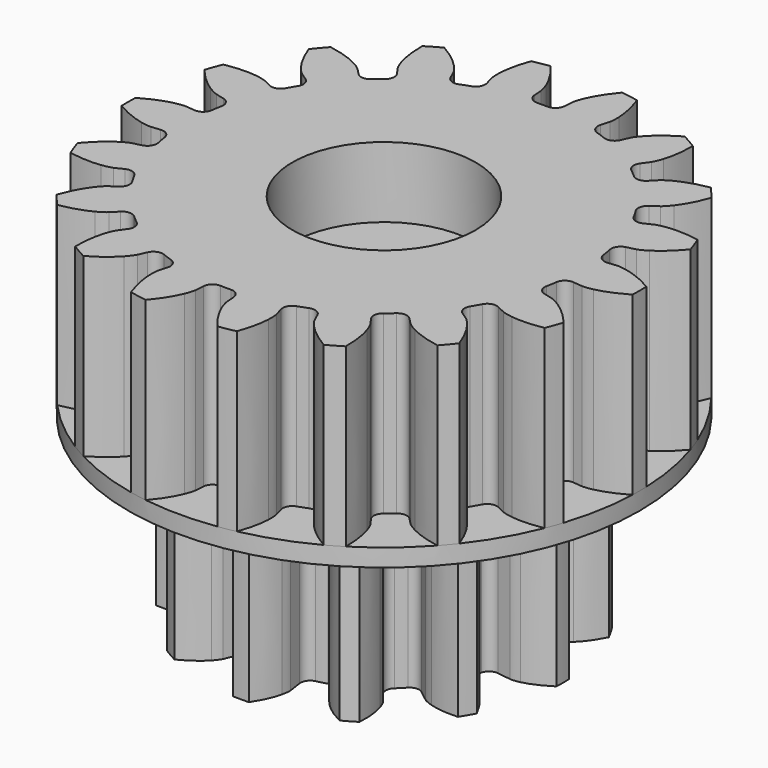
from build123d import *

# Parameters (mm, degrees)
PAD002_DEPTH    = 10
SKETCH_R        = 14.5
PAD_DEPTH       = 1
PAD001_DEPTH    = 10
SKETCH001_R     = 1.7
POCKET_DEPTH    = 16.7
SKETCH002_R     = 5
POCKET001_DEPTH = 4
SKETCH003_R     = 5.2
POCKET002_DEPTH = 4


with BuildPart() as pad:
    # InvoluteGear001 → Pad002 (new body)
    with BuildSketch(Plane.XY):
        with BuildLine():
            Line((7.332691, -1.076777), (8.11163, -1.189963))
            add(Edge.make_bspline(
                [(8.11163, -1.189963), (8.171593, -1.194233), (8.35162, -1.198221), (8.65427, -1.129313)],
                knots=[0, 0, 0, 0, 1, 1, 1, 1], degree=3))
            add(Edge.make_bspline(
                [(8.65427, -1.129313), (9.014524, -1.045174), (9.527501, -0.858342), (10.142045, -0.449147)],
                knots=[0, 0, 0, 0, 1, 1, 1, 1], degree=3))
            ThreePointArc((10.142045, -0.449147), (10.151987, 0), (10.142045, 0.449147))
            add(Edge.make_bspline(
                [(10.142045, 0.449147), (9.527501, 0.858342), (9.014524, 1.045174), (8.65427, 1.129313)],
                knots=[0, 0, 0, 0, 1, 1, 1, 1], degree=3))
            add(Edge.make_bspline(
                [(8.65427, 1.129313), (8.35162, 1.198221), (8.171593, 1.194233), (8.11163, 1.189963)],
                knots=[0, 0, 0, 0, 1, 1, 1, 1], degree=3))
            Line((8.11163, 1.189963), (7.332691, 1.076777))
            ThreePointArc((7.332691, 1.076777), (6.945887, 1.166515), (6.723226, 1.49529))
            ThreePointArc((6.723226, 1.49529), (6.652814, 1.782616), (6.570129, 2.066654))
            ThreePointArc((6.570129, 2.066654), (6.598572, 2.462712), (6.888686, 2.733829))
            Line((6.888686, 2.733829), (7.619859, 3.025277))
            add(Edge.make_bspline(
                [(7.619859, 3.025277), (7.673924, 3.05156), (7.831825, 3.13812), (8.059474, 3.349121)],
                knots=[0, 0, 0, 0, 1, 1, 1, 1], degree=3))
            add(Edge.make_bspline(
                [(8.059474, 3.349121), (8.329394, 3.602115), (8.680229, 4.020404), (9.007842, 4.68205)],
                knots=[0, 0, 0, 0, 1, 1, 1, 1], degree=3))
            ThreePointArc((9.007842, 4.68205), (8.791879, 5.075994), (8.558695, 5.459995))
            add(Edge.make_bspline(
                [(8.558695, 5.459995), (7.821886, 5.507097), (7.28422, 5.41241), (6.930161, 5.305148)],
                knots=[0, 0, 0, 0, 1, 1, 1, 1], degree=3))
            add(Edge.make_bspline(
                [(6.930161, 5.305148), (6.633604, 5.2135), (6.479691, 5.120033), (6.429896, 5.086354)],
                knots=[0, 0, 0, 0, 1, 1, 1, 1], degree=3))
            Line((6.429896, 5.086354), (5.811908, 4.598862))
            ThreePointArc((5.811908, 4.598862), (5.432057, 4.483175), (5.074839, 4.656572))
            ThreePointArc((5.074839, 4.656572), (4.870198, 4.870198), (4.656572, 5.074839))
            ThreePointArc((4.656572, 5.074839), (4.483175, 5.432057), (4.598862, 5.811908))
            Line((4.598862, 5.811908), (5.086354, 6.429896))
            add(Edge.make_bspline(
                [(5.086354, 6.429896), (5.120033, 6.479691), (5.2135, 6.633604), (5.305148, 6.930161)],
                knots=[0, 0, 0, 0, 1, 1, 1, 1], degree=3))
            add(Edge.make_bspline(
                [(5.305148, 6.930161), (5.41241, 7.28422), (5.507097, 7.821886), (5.459995, 8.558695)],
                knots=[0, 0, 0, 0, 1, 1, 1, 1], degree=3))
            ThreePointArc((5.459995, 8.558695), (5.075994, 8.791879), (4.68205, 9.007842))
            add(Edge.make_bspline(
                [(4.68205, 9.007842), (4.020404, 8.680229), (3.602115, 8.329394), (3.349121, 8.059474)],
                knots=[0, 0, 0, 0, 1, 1, 1, 1], degree=3))
            add(Edge.make_bspline(
                [(3.349121, 8.059474), (3.13812, 7.831825), (3.05156, 7.673924), (3.025277, 7.619859)],
                knots=[0, 0, 0, 0, 1, 1, 1, 1], degree=3))
            Line((3.025277, 7.619859), (2.733829, 6.888686))
            ThreePointArc((2.733829, 6.888686), (2.462712, 6.598572), (2.066654, 6.570129))
            ThreePointArc((2.066654, 6.570129), (1.782616, 6.652814), (1.49529, 6.723226))
            ThreePointArc((1.49529, 6.723226), (1.166515, 6.945887), (1.076777, 7.332691))
            Line((1.076777, 7.332691), (1.189963, 8.11163))
            add(Edge.make_bspline(
                [(1.189963, 8.11163), (1.194233, 8.171593), (1.198221, 8.35162), (1.129313, 8.65427)],
                knots=[0, 0, 0, 0, 1, 1, 1, 1], degree=3))
            add(Edge.make_bspline(
                [(1.129313, 8.65427), (1.045174, 9.014524), (0.858342, 9.527501), (0.449147, 10.142045)],
                knots=[0, 0, 0, 0, 1, 1, 1, 1], degree=3))
            ThreePointArc((0.449147, 10.142045), (0, 10.151987), (-0.449147, 10.142045))
            add(Edge.make_bspline(
                [(-0.449147, 10.142045), (-0.858342, 9.527501), (-1.045174, 9.014524), (-1.129313, 8.65427)],
                knots=[0, 0, 0, 0, 1, 1, 1, 1], degree=3))
            add(Edge.make_bspline(
                [(-1.129313, 8.65427), (-1.198221, 8.35162), (-1.194233, 8.171593), (-1.189963, 8.11163)],
                knots=[0, 0, 0, 0, 1, 1, 1, 1], degree=3))
            Line((-1.189963, 8.11163), (-1.076777, 7.332691))
            ThreePointArc((-1.076777, 7.332691), (-1.166515, 6.945887), (-1.49529, 6.723226))
            ThreePointArc((-1.49529, 6.723226), (-1.782616, 6.652814), (-2.066654, 6.570129))
            ThreePointArc((-2.066654, 6.570129), (-2.462712, 6.598572), (-2.733829, 6.888686))
            Line((-2.733829, 6.888686), (-3.025277, 7.619859))
            add(Edge.make_bspline(
                [(-3.025277, 7.619859), (-3.05156, 7.673924), (-3.13812, 7.831825), (-3.349121, 8.059474)],
                knots=[0, 0, 0, 0, 1, 1, 1, 1], degree=3))
            add(Edge.make_bspline(
                [(-3.349121, 8.059474), (-3.602115, 8.329394), (-4.020404, 8.680229), (-4.68205, 9.007842)],
                knots=[0, 0, 0, 0, 1, 1, 1, 1], degree=3))
            ThreePointArc((-4.68205, 9.007842), (-5.075994, 8.791879), (-5.459995, 8.558695))
            add(Edge.make_bspline(
                [(-5.459995, 8.558695), (-5.507097, 7.821886), (-5.41241, 7.28422), (-5.305148, 6.930161)],
                knots=[0, 0, 0, 0, 1, 1, 1, 1], degree=3))
            add(Edge.make_bspline(
                [(-5.305148, 6.930161), (-5.2135, 6.633604), (-5.120033, 6.479691), (-5.086354, 6.429896)],
                knots=[0, 0, 0, 0, 1, 1, 1, 1], degree=3))
            Line((-5.086354, 6.429896), (-4.598862, 5.811908))
            ThreePointArc((-4.598862, 5.811908), (-4.483175, 5.432057), (-4.656572, 5.074839))
            ThreePointArc((-4.656572, 5.074839), (-4.870198, 4.870198), (-5.074839, 4.656572))
            ThreePointArc((-5.074839, 4.656572), (-5.432057, 4.483175), (-5.811908, 4.598862))
            Line((-5.811908, 4.598862), (-6.429896, 5.086354))
            add(Edge.make_bspline(
                [(-6.429896, 5.086354), (-6.479691, 5.120033), (-6.633604, 5.2135), (-6.930161, 5.305148)],
                knots=[0, 0, 0, 0, 1, 1, 1, 1], degree=3))
            add(Edge.make_bspline(
                [(-6.930161, 5.305148), (-7.28422, 5.41241), (-7.821886, 5.507097), (-8.558695, 5.459995)],
                knots=[0, 0, 0, 0, 1, 1, 1, 1], degree=3))
            ThreePointArc((-8.558695, 5.459995), (-8.791879, 5.075994), (-9.007842, 4.68205))
            add(Edge.make_bspline(
                [(-9.007842, 4.68205), (-8.680229, 4.020404), (-8.329394, 3.602115), (-8.059474, 3.349121)],
                knots=[0, 0, 0, 0, 1, 1, 1, 1], degree=3))
            add(Edge.make_bspline(
                [(-8.059474, 3.349121), (-7.831825, 3.13812), (-7.673924, 3.05156), (-7.619859, 3.025277)],
                knots=[0, 0, 0, 0, 1, 1, 1, 1], degree=3))
            Line((-7.619859, 3.025277), (-6.888686, 2.733829))
            ThreePointArc((-6.888686, 2.733829), (-6.598572, 2.462712), (-6.570129, 2.066654))
            ThreePointArc((-6.570129, 2.066654), (-6.652814, 1.782616), (-6.723226, 1.49529))
            ThreePointArc((-6.723226, 1.49529), (-6.945887, 1.166515), (-7.332691, 1.076777))
            Line((-7.332691, 1.076777), (-8.11163, 1.189963))
            add(Edge.make_bspline(
                [(-8.11163, 1.189963), (-8.171593, 1.194233), (-8.35162, 1.198221), (-8.65427, 1.129313)],
                knots=[0, 0, 0, 0, 1, 1, 1, 1], degree=3))
            add(Edge.make_bspline(
                [(-8.65427, 1.129313), (-9.014524, 1.045174), (-9.527501, 0.858342), (-10.142045, 0.449147)],
                knots=[0, 0, 0, 0, 1, 1, 1, 1], degree=3))
            ThreePointArc((-10.142045, 0.449147), (-10.151987, 0), (-10.142045, -0.449147))
            add(Edge.make_bspline(
                [(-10.142045, -0.449147), (-9.527501, -0.858342), (-9.014524, -1.045174), (-8.65427, -1.129313)],
                knots=[0, 0, 0, 0, 1, 1, 1, 1], degree=3))
            add(Edge.make_bspline(
                [(-8.65427, -1.129313), (-8.35162, -1.198221), (-8.171593, -1.194233), (-8.11163, -1.189963)],
                knots=[0, 0, 0, 0, 1, 1, 1, 1], degree=3))
            Line((-8.11163, -1.189963), (-7.332691, -1.076777))
            ThreePointArc((-7.332691, -1.076777), (-6.945887, -1.166515), (-6.723226, -1.49529))
            ThreePointArc((-6.723226, -1.49529), (-6.652814, -1.782616), (-6.570129, -2.066654))
            ThreePointArc((-6.570129, -2.066654), (-6.598572, -2.462712), (-6.888686, -2.733829))
            Line((-6.888686, -2.733829), (-7.619859, -3.025277))
            add(Edge.make_bspline(
                [(-7.619859, -3.025277), (-7.673924, -3.05156), (-7.831825, -3.13812), (-8.059474, -3.349121)],
                knots=[0, 0, 0, 0, 1, 1, 1, 1], degree=3))
            add(Edge.make_bspline(
                [(-8.059474, -3.349121), (-8.329394, -3.602115), (-8.680229, -4.020404), (-9.007842, -4.68205)],
                knots=[0, 0, 0, 0, 1, 1, 1, 1], degree=3))
            ThreePointArc((-9.007842, -4.68205), (-8.791879, -5.075994), (-8.558695, -5.459995))
            add(Edge.make_bspline(
                [(-8.558695, -5.459995), (-7.821886, -5.507097), (-7.28422, -5.41241), (-6.930161, -5.305148)],
                knots=[0, 0, 0, 0, 1, 1, 1, 1], degree=3))
            add(Edge.make_bspline(
                [(-6.930161, -5.305148), (-6.633604, -5.2135), (-6.479691, -5.120033), (-6.429896, -5.086354)],
                knots=[0, 0, 0, 0, 1, 1, 1, 1], degree=3))
            Line((-6.429896, -5.086354), (-5.811908, -4.598862))
            ThreePointArc((-5.811908, -4.598862), (-5.432057, -4.483175), (-5.074839, -4.656572))
            ThreePointArc((-5.074839, -4.656572), (-4.870198, -4.870198), (-4.656572, -5.074839))
            ThreePointArc((-4.656572, -5.074839), (-4.483175, -5.432057), (-4.598862, -5.811908))
            Line((-4.598862, -5.811908), (-5.086354, -6.429896))
            add(Edge.make_bspline(
                [(-5.086354, -6.429896), (-5.120033, -6.479691), (-5.2135, -6.633604), (-5.305148, -6.930161)],
                knots=[0, 0, 0, 0, 1, 1, 1, 1], degree=3))
            add(Edge.make_bspline(
                [(-5.305148, -6.930161), (-5.41241, -7.28422), (-5.507097, -7.821886), (-5.459995, -8.558695)],
                knots=[0, 0, 0, 0, 1, 1, 1, 1], degree=3))
            ThreePointArc((-5.459995, -8.558695), (-5.075994, -8.791879), (-4.68205, -9.007842))
            add(Edge.make_bspline(
                [(-4.68205, -9.007842), (-4.020404, -8.680229), (-3.602115, -8.329394), (-3.349121, -8.059474)],
                knots=[0, 0, 0, 0, 1, 1, 1, 1], degree=3))
            add(Edge.make_bspline(
                [(-3.349121, -8.059474), (-3.13812, -7.831825), (-3.05156, -7.673924), (-3.025277, -7.619859)],
                knots=[0, 0, 0, 0, 1, 1, 1, 1], degree=3))
            Line((-3.025277, -7.619859), (-2.733829, -6.888686))
            ThreePointArc((-2.733829, -6.888686), (-2.462712, -6.598572), (-2.066654, -6.570129))
            ThreePointArc((-2.066654, -6.570129), (-1.782616, -6.652814), (-1.49529, -6.723226))
            ThreePointArc((-1.49529, -6.723226), (-1.166515, -6.945887), (-1.076777, -7.332691))
            Line((-1.076777, -7.332691), (-1.189963, -8.11163))
            add(Edge.make_bspline(
                [(-1.189963, -8.11163), (-1.194233, -8.171593), (-1.198221, -8.35162), (-1.129313, -8.65427)],
                knots=[0, 0, 0, 0, 1, 1, 1, 1], degree=3))
            add(Edge.make_bspline(
                [(-1.129313, -8.65427), (-1.045174, -9.014524), (-0.858342, -9.527501), (-0.449147, -10.142045)],
                knots=[0, 0, 0, 0, 1, 1, 1, 1], degree=3))
            ThreePointArc((-0.449147, -10.142045), (0, -10.151987), (0.449147, -10.142045))
            add(Edge.make_bspline(
                [(0.449147, -10.142045), (0.858342, -9.527501), (1.045174, -9.014524), (1.129313, -8.65427)],
                knots=[0, 0, 0, 0, 1, 1, 1, 1], degree=3))
            add(Edge.make_bspline(
                [(1.129313, -8.65427), (1.198221, -8.35162), (1.194233, -8.171593), (1.189963, -8.11163)],
                knots=[0, 0, 0, 0, 1, 1, 1, 1], degree=3))
            Line((1.189963, -8.11163), (1.076777, -7.332691))
            ThreePointArc((1.076777, -7.332691), (1.166515, -6.945887), (1.49529, -6.723226))
            ThreePointArc((1.49529, -6.723226), (1.782616, -6.652814), (2.066654, -6.570129))
            ThreePointArc((2.066654, -6.570129), (2.462712, -6.598572), (2.733829, -6.888686))
            Line((2.733829, -6.888686), (3.025277, -7.619859))
            add(Edge.make_bspline(
                [(3.025277, -7.619859), (3.05156, -7.673924), (3.13812, -7.831825), (3.349121, -8.059474)],
                knots=[0, 0, 0, 0, 1, 1, 1, 1], degree=3))
            add(Edge.make_bspline(
                [(3.349121, -8.059474), (3.602115, -8.329394), (4.020404, -8.680229), (4.68205, -9.007842)],
                knots=[0, 0, 0, 0, 1, 1, 1, 1], degree=3))
            ThreePointArc((4.68205, -9.007842), (5.075994, -8.791879), (5.459995, -8.558695))
            add(Edge.make_bspline(
                [(5.459995, -8.558695), (5.507097, -7.821886), (5.41241, -7.28422), (5.305148, -6.930161)],
                knots=[0, 0, 0, 0, 1, 1, 1, 1], degree=3))
            add(Edge.make_bspline(
                [(5.305148, -6.930161), (5.2135, -6.633604), (5.120033, -6.479691), (5.086354, -6.429896)],
                knots=[0, 0, 0, 0, 1, 1, 1, 1], degree=3))
            Line((5.086354, -6.429896), (4.598862, -5.811908))
            ThreePointArc((4.598862, -5.811908), (4.483175, -5.432057), (4.656572, -5.074839))
            ThreePointArc((4.656572, -5.074839), (4.870198, -4.870198), (5.074839, -4.656572))
            ThreePointArc((5.074839, -4.656572), (5.432057, -4.483175), (5.811908, -4.598862))
            Line((5.811908, -4.598862), (6.429896, -5.086354))
            add(Edge.make_bspline(
                [(6.429896, -5.086354), (6.479691, -5.120033), (6.633604, -5.2135), (6.930161, -5.305148)],
                knots=[0, 0, 0, 0, 1, 1, 1, 1], degree=3))
            add(Edge.make_bspline(
                [(6.930161, -5.305148), (7.28422, -5.41241), (7.821886, -5.507097), (8.558695, -5.459995)],
                knots=[0, 0, 0, 0, 1, 1, 1, 1], degree=3))
            ThreePointArc((8.558695, -5.459995), (8.791879, -5.075994), (9.007842, -4.68205))
            add(Edge.make_bspline(
                [(9.007842, -4.68205), (8.680229, -4.020404), (8.329394, -3.602115), (8.059474, -3.349121)],
                knots=[0, 0, 0, 0, 1, 1, 1, 1], degree=3))
            add(Edge.make_bspline(
                [(8.059474, -3.349121), (7.831825, -3.13812), (7.673924, -3.05156), (7.619859, -3.025277)],
                knots=[0, 0, 0, 0, 1, 1, 1, 1], degree=3))
            Line((7.619859, -3.025277), (6.888686, -2.733829))
            ThreePointArc((6.888686, -2.733829), (6.598572, -2.462712), (6.570129, -2.066654))
            ThreePointArc((6.570129, -2.066654), (6.652814, -1.782616), (6.723226, -1.49529))
            ThreePointArc((6.723226, -1.49529), (6.945887, -1.166515), (7.332691, -1.076777))
        make_face()
    extrude(amount=-PAD002_DEPTH)

    # Sketch → Pad (new body)
    with BuildSketch(Plane.XY):
        Circle(SKETCH_R)
    extrude(amount=PAD_DEPTH)


with BuildPart() as final:
    # InvoluteGear → Pad001 (new body)
    with BuildSketch(Plane.XY.offset(1)):
        with BuildLine():
            Line((11.707323, -1.200327), (12.224235, -1.252222))
            add(Edge.make_bspline(
                [(12.224235, -1.252222), (12.290492, -1.254765), (12.489834, -1.254028), (12.822773, -1.181097)],
                knots=[0, 0, 0, 0, 1, 1, 1, 1], degree=3))
            add(Edge.make_bspline(
                [(12.822773, -1.181097), (13.220721, -1.092448), (13.792352, -0.90147), (14.493245, -0.493472)],
                knots=[0, 0, 0, 0, 1, 1, 1, 1], degree=3))
            ThreePointArc((14.493245, -0.493472), (14.501644, 0), (14.493245, 0.493472))
            add(Edge.make_bspline(
                [(14.493245, 0.493472), (13.792352, 0.90147), (13.220721, 1.092448), (12.822773, 1.181097)],
                knots=[0, 0, 0, 0, 1, 1, 1, 1], degree=3))
            add(Edge.make_bspline(
                [(12.822773, 1.181097), (12.489834, 1.254028), (12.290492, 1.254765), (12.224235, 1.252222)],
                knots=[0, 0, 0, 0, 1, 1, 1, 1], degree=3))
            Line((12.224235, 1.252222), (11.707323, 1.200327))
            ThreePointArc((11.707323, 1.200327), (11.318638, 1.311561), (11.114167, 1.66033))
            ThreePointArc((11.114167, 1.66033), (11.066777, 1.951371), (11.011767, 2.241069))
            ThreePointArc((11.011767, 2.241069), (11.084621, 2.638738), (11.411821, 2.876202))
            Line((11.411821, 2.876202), (11.915309, 3.004231))
            add(Edge.make_bspline(
                [(11.915309, 3.004231), (11.978439, 3.024502), (12.165508, 3.093374), (12.453424, 3.275779)],
                knots=[0, 0, 0, 0, 1, 1, 1, 1], degree=3))
            add(Edge.make_bspline(
                [(12.453424, 3.275779), (12.797053, 3.495187), (13.268892, 3.870157), (13.787973, 4.49327)],
                knots=[0, 0, 0, 0, 1, 1, 1, 1], degree=3))
            ThreePointArc((13.787973, 4.49327), (13.627088, 4.959855), (13.450418, 5.420694))
            add(Edge.make_bspline(
                [(13.450418, 5.420694), (12.652251, 5.564367), (12.049774, 5.548318), (11.645506, 5.495514)],
                knots=[0, 0, 0, 0, 1, 1, 1, 1], degree=3))
            add(Edge.make_bspline(
                [(11.645506, 5.495514), (11.307703, 5.450176), (11.12013, 5.382689), (11.058738, 5.357639)],
                knots=[0, 0, 0, 0, 1, 1, 1, 1], degree=3))
            Line((11.058738, 5.357639), (10.590749, 5.132078))
            ThreePointArc((10.590749, 5.132078), (10.187461, 5.103666), (9.876034, 5.361469))
            ThreePointArc((9.876034, 5.361469), (9.73196, 5.61875), (9.581186, 5.872162))
            ThreePointArc((9.581186, 5.872162), (9.513635, 6.270767), (9.739885, 6.605818))
            Line((9.739885, 6.605818), (10.169221, 6.898329))
            add(Edge.make_bspline(
                [(10.169221, 6.898329), (10.22161, 6.93897), (10.373842, 7.06767), (10.582008, 7.337547)],
                knots=[0, 0, 0, 0, 1, 1, 1, 1], degree=3))
            add(Edge.make_bspline(
                [(10.582008, 7.337547), (10.829872, 7.661252), (11.145008, 8.174987), (11.419667, 8.938057)],
                knots=[0, 0, 0, 0, 1, 1, 1, 1], degree=3))
            ThreePointArc((11.419667, 8.938057), (11.108904, 9.321477), (10.785272, 9.6941))
            add(Edge.make_bspline(
                [(10.785272, 9.6941), (9.986101, 9.556119), (9.425447, 9.334979), (9.06362, 9.147092)],
                knots=[0, 0, 0, 0, 1, 1, 1, 1], degree=3))
            add(Edge.make_bspline(
                [(9.06362, 9.147092), (8.761695, 8.988952), (8.608516, 8.861382), (8.559394, 8.816845)],
                knots=[0, 0, 0, 0, 1, 1, 1, 1], degree=3))
            Line((8.559394, 8.816845), (8.196774, 8.444826))
            ThreePointArc((8.196774, 8.444826), (7.827525, 8.280194), (7.446706, 8.415936))
            ThreePointArc((7.446706, 8.415936), (7.223326, 8.608424), (6.994972, 8.794986))
            ThreePointArc((6.994972, 8.794986), (6.795164, 9.146448), (6.893175, 9.538675))
            Line((6.893175, 9.538675), (7.196574, 9.960387))
            add(Edge.make_bspline(
                [(7.196574, 9.960387), (7.231904, 10.016496), (7.330937, 10.1895), (7.434246, 10.514299)],
                knots=[0, 0, 0, 0, 1, 1, 1, 1], degree=3))
            add(Edge.make_bspline(
                [(7.434246, 10.514299), (7.556448, 10.903256), (7.676872, 11.493792), (7.673982, 12.304782)],
                knots=[0, 0, 0, 0, 1, 1, 1, 1], degree=3))
            ThreePointArc((7.673982, 12.304782), (7.250822, 12.558792), (6.819263, 12.798254))
            add(Edge.make_bspline(
                [(6.819263, 12.798254), (6.11548, 12.395262), (5.664272, 11.995704), (5.388527, 11.695396)],
                knots=[0, 0, 0, 0, 1, 1, 1, 1], degree=3))
            add(Edge.make_bspline(
                [(5.388527, 11.695396), (5.158897, 11.443528), (5.058588, 11.271261), (5.027661, 11.21261)],
                knots=[0, 0, 0, 0, 1, 1, 1, 1], degree=3))
            Line((5.027661, 11.21261), (4.814148, 10.739002))
            ThreePointArc((4.814148, 10.739002), (4.523474, 10.458009), (4.119196, 10.455316))
            ThreePointArc((4.119196, 10.455316), (3.843451, 10.559796), (3.565061, 10.657005))
            ThreePointArc((3.565061, 10.657005), (3.257096, 10.918933), (3.215046, 11.321028))
            Line((3.215046, 11.321028), (3.355915, 11.821076))
            add(Edge.make_bspline(
                [(3.355915, 11.821076), (3.369924, 11.885884), (3.403813, 12.082326), (3.389804, 12.422871)],
                knots=[0, 0, 0, 0, 1, 1, 1, 1], degree=3))
            add(Edge.make_bspline(
                [(3.389804, 12.422871), (3.371605, 12.830166), (3.282792, 13.426277), (3.0027, 14.18737)],
                knots=[0, 0, 0, 0, 1, 1, 1, 1], degree=3))
            ThreePointArc((3.0027, 14.18737), (2.518184, 14.281332), (2.030751, 14.35875))
            add(Edge.make_bspline(
                [(2.030751, 14.35875), (1.507242, 13.739354), (1.219903, 13.20957), (1.063498, 12.833062)],
                knots=[0, 0, 0, 0, 1, 1, 1, 1], degree=3))
            add(Edge.make_bspline(
                [(1.063498, 12.833062), (0.933861, 12.517845), (0.898519, 12.321659), (0.889518, 12.255968)],
                knots=[0, 0, 0, 0, 1, 1, 1, 1], degree=3))
            Line((0.889518, 12.255968), (0.850864, 11.737897))
            ThreePointArc((0.850864, 11.737897), (0.673826, 11.374433), (0.294849, 11.233631))
            ThreePointArc((0.294849, 11.233631), (0, 11.2375), (-0.294849, 11.233631))
            ThreePointArc((-0.294849, 11.233631), (-0.673826, 11.374433), (-0.850864, 11.737897))
            Line((-0.850864, 11.737897), (-0.889518, 12.255968))
            add(Edge.make_bspline(
                [(-0.889518, 12.255968), (-0.898519, 12.321659), (-0.933861, 12.517845), (-1.063498, 12.833062)],
                knots=[0, 0, 0, 0, 1, 1, 1, 1], degree=3))
            add(Edge.make_bspline(
                [(-1.063498, 12.833062), (-1.219903, 13.20957), (-1.507242, 13.739354), (-2.030751, 14.35875)],
                knots=[0, 0, 0, 0, 1, 1, 1, 1], degree=3))
            ThreePointArc((-2.030751, 14.35875), (-2.518184, 14.281332), (-3.0027, 14.18737))
            add(Edge.make_bspline(
                [(-3.0027, 14.18737), (-3.282792, 13.426277), (-3.371605, 12.830166), (-3.389804, 12.422871)],
                knots=[0, 0, 0, 0, 1, 1, 1, 1], degree=3))
            add(Edge.make_bspline(
                [(-3.389804, 12.422871), (-3.403813, 12.082326), (-3.369924, 11.885884), (-3.355915, 11.821076)],
                knots=[0, 0, 0, 0, 1, 1, 1, 1], degree=3))
            Line((-3.355915, 11.821076), (-3.215046, 11.321028))
            ThreePointArc((-3.215046, 11.321028), (-3.257096, 10.918933), (-3.565061, 10.657005))
            ThreePointArc((-3.565061, 10.657005), (-3.843451, 10.559796), (-4.119196, 10.455316))
            ThreePointArc((-4.119196, 10.455316), (-4.523474, 10.458009), (-4.814148, 10.739002))
            Line((-4.814148, 10.739002), (-5.027661, 11.21261))
            add(Edge.make_bspline(
                [(-5.027661, 11.21261), (-5.058588, 11.271261), (-5.158897, 11.443528), (-5.388527, 11.695396)],
                knots=[0, 0, 0, 0, 1, 1, 1, 1], degree=3))
            add(Edge.make_bspline(
                [(-5.388527, 11.695396), (-5.664272, 11.995704), (-6.11548, 12.395262), (-6.819263, 12.798254)],
                knots=[0, 0, 0, 0, 1, 1, 1, 1], degree=3))
            ThreePointArc((-6.819263, 12.798254), (-7.250822, 12.558792), (-7.673982, 12.304782))
            add(Edge.make_bspline(
                [(-7.673982, 12.304782), (-7.676872, 11.493792), (-7.556448, 10.903256), (-7.434246, 10.514299)],
                knots=[0, 0, 0, 0, 1, 1, 1, 1], degree=3))
            add(Edge.make_bspline(
                [(-7.434246, 10.514299), (-7.330937, 10.1895), (-7.231904, 10.016496), (-7.196574, 9.960387)],
                knots=[0, 0, 0, 0, 1, 1, 1, 1], degree=3))
            Line((-7.196574, 9.960387), (-6.893175, 9.538675))
            ThreePointArc((-6.893175, 9.538675), (-6.795164, 9.146448), (-6.994972, 8.794986))
            ThreePointArc((-6.994972, 8.794986), (-7.223326, 8.608424), (-7.446706, 8.415936))
            ThreePointArc((-7.446706, 8.415936), (-7.827525, 8.280194), (-8.196774, 8.444826))
            Line((-8.196774, 8.444826), (-8.559394, 8.816845))
            add(Edge.make_bspline(
                [(-8.559394, 8.816845), (-8.608516, 8.861382), (-8.761695, 8.988952), (-9.06362, 9.147092)],
                knots=[0, 0, 0, 0, 1, 1, 1, 1], degree=3))
            add(Edge.make_bspline(
                [(-9.06362, 9.147092), (-9.425447, 9.334979), (-9.986101, 9.556119), (-10.785272, 9.6941)],
                knots=[0, 0, 0, 0, 1, 1, 1, 1], degree=3))
            ThreePointArc((-10.785272, 9.6941), (-11.108904, 9.321477), (-11.419667, 8.938057))
            add(Edge.make_bspline(
                [(-11.419667, 8.938057), (-11.145008, 8.174987), (-10.829872, 7.661252), (-10.582008, 7.337547)],
                knots=[0, 0, 0, 0, 1, 1, 1, 1], degree=3))
            add(Edge.make_bspline(
                [(-10.582008, 7.337547), (-10.373842, 7.06767), (-10.22161, 6.93897), (-10.169221, 6.898329)],
                knots=[0, 0, 0, 0, 1, 1, 1, 1], degree=3))
            Line((-10.169221, 6.898329), (-9.739885, 6.605818))
            ThreePointArc((-9.739885, 6.605818), (-9.513635, 6.270767), (-9.581186, 5.872162))
            ThreePointArc((-9.581186, 5.872162), (-9.73196, 5.61875), (-9.876034, 5.361469))
            ThreePointArc((-9.876034, 5.361469), (-10.187461, 5.103666), (-10.590749, 5.132078))
            Line((-10.590749, 5.132078), (-11.058738, 5.357639))
            add(Edge.make_bspline(
                [(-11.058738, 5.357639), (-11.12013, 5.382689), (-11.307703, 5.450176), (-11.645506, 5.495514)],
                knots=[0, 0, 0, 0, 1, 1, 1, 1], degree=3))
            add(Edge.make_bspline(
                [(-11.645506, 5.495514), (-12.049774, 5.548318), (-12.652251, 5.564367), (-13.450418, 5.420694)],
                knots=[0, 0, 0, 0, 1, 1, 1, 1], degree=3))
            ThreePointArc((-13.450418, 5.420694), (-13.627088, 4.959855), (-13.787973, 4.49327))
            add(Edge.make_bspline(
                [(-13.787973, 4.49327), (-13.268892, 3.870157), (-12.797053, 3.495187), (-12.453424, 3.275779)],
                knots=[0, 0, 0, 0, 1, 1, 1, 1], degree=3))
            add(Edge.make_bspline(
                [(-12.453424, 3.275779), (-12.165508, 3.093374), (-11.978439, 3.024502), (-11.915309, 3.004231)],
                knots=[0, 0, 0, 0, 1, 1, 1, 1], degree=3))
            Line((-11.915309, 3.004231), (-11.411821, 2.876202))
            ThreePointArc((-11.411821, 2.876202), (-11.084621, 2.638738), (-11.011767, 2.241069))
            ThreePointArc((-11.011767, 2.241069), (-11.066777, 1.951371), (-11.114167, 1.66033))
            ThreePointArc((-11.114167, 1.66033), (-11.318638, 1.311561), (-11.707323, 1.200327))
            Line((-11.707323, 1.200327), (-12.224235, 1.252222))
            add(Edge.make_bspline(
                [(-12.224235, 1.252222), (-12.290492, 1.254765), (-12.489834, 1.254028), (-12.822773, 1.181097)],
                knots=[0, 0, 0, 0, 1, 1, 1, 1], degree=3))
            add(Edge.make_bspline(
                [(-12.822773, 1.181097), (-13.220721, 1.092448), (-13.792352, 0.90147), (-14.493245, 0.493472)],
                knots=[0, 0, 0, 0, 1, 1, 1, 1], degree=3))
            ThreePointArc((-14.493245, 0.493472), (-14.501644, 0), (-14.493245, -0.493472))
            add(Edge.make_bspline(
                [(-14.493245, -0.493472), (-13.792352, -0.90147), (-13.220721, -1.092448), (-12.822773, -1.181097)],
                knots=[0, 0, 0, 0, 1, 1, 1, 1], degree=3))
            add(Edge.make_bspline(
                [(-12.822773, -1.181097), (-12.489834, -1.254028), (-12.290492, -1.254765), (-12.224235, -1.252222)],
                knots=[0, 0, 0, 0, 1, 1, 1, 1], degree=3))
            Line((-12.224235, -1.252222), (-11.707323, -1.200327))
            ThreePointArc((-11.707323, -1.200327), (-11.318638, -1.311561), (-11.114167, -1.66033))
            ThreePointArc((-11.114167, -1.66033), (-11.066777, -1.951371), (-11.011767, -2.241069))
            ThreePointArc((-11.011767, -2.241069), (-11.084621, -2.638738), (-11.411821, -2.876202))
            Line((-11.411821, -2.876202), (-11.915309, -3.004231))
            add(Edge.make_bspline(
                [(-11.915309, -3.004231), (-11.978439, -3.024502), (-12.165508, -3.093374), (-12.453424, -3.275779)],
                knots=[0, 0, 0, 0, 1, 1, 1, 1], degree=3))
            add(Edge.make_bspline(
                [(-12.453424, -3.275779), (-12.797053, -3.495187), (-13.268892, -3.870157), (-13.787973, -4.49327)],
                knots=[0, 0, 0, 0, 1, 1, 1, 1], degree=3))
            ThreePointArc((-13.787973, -4.49327), (-13.627088, -4.959855), (-13.450418, -5.420694))
            add(Edge.make_bspline(
                [(-13.450418, -5.420694), (-12.652251, -5.564367), (-12.049774, -5.548318), (-11.645506, -5.495514)],
                knots=[0, 0, 0, 0, 1, 1, 1, 1], degree=3))
            add(Edge.make_bspline(
                [(-11.645506, -5.495514), (-11.307703, -5.450176), (-11.12013, -5.382689), (-11.058738, -5.357639)],
                knots=[0, 0, 0, 0, 1, 1, 1, 1], degree=3))
            Line((-11.058738, -5.357639), (-10.590749, -5.132078))
            ThreePointArc((-10.590749, -5.132078), (-10.187461, -5.103666), (-9.876034, -5.361469))
            ThreePointArc((-9.876034, -5.361469), (-9.73196, -5.61875), (-9.581186, -5.872162))
            ThreePointArc((-9.581186, -5.872162), (-9.513635, -6.270767), (-9.739885, -6.605818))
            Line((-9.739885, -6.605818), (-10.169221, -6.898329))
            add(Edge.make_bspline(
                [(-10.169221, -6.898329), (-10.22161, -6.93897), (-10.373842, -7.06767), (-10.582008, -7.337547)],
                knots=[0, 0, 0, 0, 1, 1, 1, 1], degree=3))
            add(Edge.make_bspline(
                [(-10.582008, -7.337547), (-10.829872, -7.661252), (-11.145008, -8.174987), (-11.419667, -8.938057)],
                knots=[0, 0, 0, 0, 1, 1, 1, 1], degree=3))
            ThreePointArc((-11.419667, -8.938057), (-11.108904, -9.321477), (-10.785272, -9.6941))
            add(Edge.make_bspline(
                [(-10.785272, -9.6941), (-9.986101, -9.556119), (-9.425447, -9.334979), (-9.06362, -9.147092)],
                knots=[0, 0, 0, 0, 1, 1, 1, 1], degree=3))
            add(Edge.make_bspline(
                [(-9.06362, -9.147092), (-8.761695, -8.988952), (-8.608516, -8.861382), (-8.559394, -8.816845)],
                knots=[0, 0, 0, 0, 1, 1, 1, 1], degree=3))
            Line((-8.559394, -8.816845), (-8.196774, -8.444826))
            ThreePointArc((-8.196774, -8.444826), (-7.827525, -8.280194), (-7.446706, -8.415936))
            ThreePointArc((-7.446706, -8.415936), (-7.223326, -8.608424), (-6.994972, -8.794986))
            ThreePointArc((-6.994972, -8.794986), (-6.795164, -9.146448), (-6.893175, -9.538675))
            Line((-6.893175, -9.538675), (-7.196574, -9.960387))
            add(Edge.make_bspline(
                [(-7.196574, -9.960387), (-7.231904, -10.016496), (-7.330937, -10.1895), (-7.434246, -10.514299)],
                knots=[0, 0, 0, 0, 1, 1, 1, 1], degree=3))
            add(Edge.make_bspline(
                [(-7.434246, -10.514299), (-7.556448, -10.903256), (-7.676872, -11.493792), (-7.673982, -12.304782)],
                knots=[0, 0, 0, 0, 1, 1, 1, 1], degree=3))
            ThreePointArc((-7.673982, -12.304782), (-7.250822, -12.558792), (-6.819263, -12.798254))
            add(Edge.make_bspline(
                [(-6.819263, -12.798254), (-6.11548, -12.395262), (-5.664272, -11.995704), (-5.388527, -11.695396)],
                knots=[0, 0, 0, 0, 1, 1, 1, 1], degree=3))
            add(Edge.make_bspline(
                [(-5.388527, -11.695396), (-5.158897, -11.443528), (-5.058588, -11.271261), (-5.027661, -11.21261)],
                knots=[0, 0, 0, 0, 1, 1, 1, 1], degree=3))
            Line((-5.027661, -11.21261), (-4.814148, -10.739002))
            ThreePointArc((-4.814148, -10.739002), (-4.523474, -10.458009), (-4.119196, -10.455316))
            ThreePointArc((-4.119196, -10.455316), (-3.843451, -10.559796), (-3.565061, -10.657005))
            ThreePointArc((-3.565061, -10.657005), (-3.257096, -10.918933), (-3.215046, -11.321028))
            Line((-3.215046, -11.321028), (-3.355915, -11.821076))
            add(Edge.make_bspline(
                [(-3.355915, -11.821076), (-3.369924, -11.885884), (-3.403813, -12.082326), (-3.389804, -12.422871)],
                knots=[0, 0, 0, 0, 1, 1, 1, 1], degree=3))
            add(Edge.make_bspline(
                [(-3.389804, -12.422871), (-3.371605, -12.830166), (-3.282792, -13.426277), (-3.0027, -14.18737)],
                knots=[0, 0, 0, 0, 1, 1, 1, 1], degree=3))
            ThreePointArc((-3.0027, -14.18737), (-2.518184, -14.281332), (-2.030751, -14.35875))
            add(Edge.make_bspline(
                [(-2.030751, -14.35875), (-1.507242, -13.739354), (-1.219903, -13.20957), (-1.063498, -12.833062)],
                knots=[0, 0, 0, 0, 1, 1, 1, 1], degree=3))
            add(Edge.make_bspline(
                [(-1.063498, -12.833062), (-0.933861, -12.517845), (-0.898519, -12.321659), (-0.889518, -12.255968)],
                knots=[0, 0, 0, 0, 1, 1, 1, 1], degree=3))
            Line((-0.889518, -12.255968), (-0.850864, -11.737897))
            ThreePointArc((-0.850864, -11.737897), (-0.673826, -11.374433), (-0.294849, -11.233631))
            ThreePointArc((-0.294849, -11.233631), (0, -11.2375), (0.294849, -11.233631))
            ThreePointArc((0.294849, -11.233631), (0.673826, -11.374433), (0.850864, -11.737897))
            Line((0.850864, -11.737897), (0.889518, -12.255968))
            add(Edge.make_bspline(
                [(0.889518, -12.255968), (0.898519, -12.321659), (0.933861, -12.517845), (1.063498, -12.833062)],
                knots=[0, 0, 0, 0, 1, 1, 1, 1], degree=3))
            add(Edge.make_bspline(
                [(1.063498, -12.833062), (1.219903, -13.20957), (1.507242, -13.739354), (2.030751, -14.35875)],
                knots=[0, 0, 0, 0, 1, 1, 1, 1], degree=3))
            ThreePointArc((2.030751, -14.35875), (2.518184, -14.281332), (3.0027, -14.18737))
            add(Edge.make_bspline(
                [(3.0027, -14.18737), (3.282792, -13.426277), (3.371605, -12.830166), (3.389804, -12.422871)],
                knots=[0, 0, 0, 0, 1, 1, 1, 1], degree=3))
            add(Edge.make_bspline(
                [(3.389804, -12.422871), (3.403813, -12.082326), (3.369924, -11.885884), (3.355915, -11.821076)],
                knots=[0, 0, 0, 0, 1, 1, 1, 1], degree=3))
            Line((3.355915, -11.821076), (3.215046, -11.321028))
            ThreePointArc((3.215046, -11.321028), (3.257096, -10.918933), (3.565061, -10.657005))
            ThreePointArc((3.565061, -10.657005), (3.843451, -10.559796), (4.119196, -10.455316))
            ThreePointArc((4.119196, -10.455316), (4.523474, -10.458009), (4.814148, -10.739002))
            Line((4.814148, -10.739002), (5.027661, -11.21261))
            add(Edge.make_bspline(
                [(5.027661, -11.21261), (5.058588, -11.271261), (5.158897, -11.443528), (5.388527, -11.695396)],
                knots=[0, 0, 0, 0, 1, 1, 1, 1], degree=3))
            add(Edge.make_bspline(
                [(5.388527, -11.695396), (5.664272, -11.995704), (6.11548, -12.395262), (6.819263, -12.798254)],
                knots=[0, 0, 0, 0, 1, 1, 1, 1], degree=3))
            ThreePointArc((6.819263, -12.798254), (7.250822, -12.558792), (7.673982, -12.304782))
            add(Edge.make_bspline(
                [(7.673982, -12.304782), (7.676872, -11.493792), (7.556448, -10.903256), (7.434246, -10.514299)],
                knots=[0, 0, 0, 0, 1, 1, 1, 1], degree=3))
            add(Edge.make_bspline(
                [(7.434246, -10.514299), (7.330937, -10.1895), (7.231904, -10.016496), (7.196574, -9.960387)],
                knots=[0, 0, 0, 0, 1, 1, 1, 1], degree=3))
            Line((7.196574, -9.960387), (6.893175, -9.538675))
            ThreePointArc((6.893175, -9.538675), (6.795164, -9.146448), (6.994972, -8.794986))
            ThreePointArc((6.994972, -8.794986), (7.223326, -8.608424), (7.446706, -8.415936))
            ThreePointArc((7.446706, -8.415936), (7.827525, -8.280194), (8.196774, -8.444826))
            Line((8.196774, -8.444826), (8.559394, -8.816845))
            add(Edge.make_bspline(
                [(8.559394, -8.816845), (8.608516, -8.861382), (8.761695, -8.988952), (9.06362, -9.147092)],
                knots=[0, 0, 0, 0, 1, 1, 1, 1], degree=3))
            add(Edge.make_bspline(
                [(9.06362, -9.147092), (9.425447, -9.334979), (9.986101, -9.556119), (10.785272, -9.6941)],
                knots=[0, 0, 0, 0, 1, 1, 1, 1], degree=3))
            ThreePointArc((10.785272, -9.6941), (11.108904, -9.321477), (11.419667, -8.938057))
            add(Edge.make_bspline(
                [(11.419667, -8.938057), (11.145008, -8.174987), (10.829872, -7.661252), (10.582008, -7.337547)],
                knots=[0, 0, 0, 0, 1, 1, 1, 1], degree=3))
            add(Edge.make_bspline(
                [(10.582008, -7.337547), (10.373842, -7.06767), (10.22161, -6.93897), (10.169221, -6.898329)],
                knots=[0, 0, 0, 0, 1, 1, 1, 1], degree=3))
            Line((10.169221, -6.898329), (9.739885, -6.605818))
            ThreePointArc((9.739885, -6.605818), (9.513635, -6.270767), (9.581186, -5.872162))
            ThreePointArc((9.581186, -5.872162), (9.73196, -5.61875), (9.876034, -5.361469))
            ThreePointArc((9.876034, -5.361469), (10.187461, -5.103666), (10.590749, -5.132078))
            Line((10.590749, -5.132078), (11.058738, -5.357639))
            add(Edge.make_bspline(
                [(11.058738, -5.357639), (11.12013, -5.382689), (11.307703, -5.450176), (11.645506, -5.495514)],
                knots=[0, 0, 0, 0, 1, 1, 1, 1], degree=3))
            add(Edge.make_bspline(
                [(11.645506, -5.495514), (12.049774, -5.548318), (12.652251, -5.564367), (13.450418, -5.420694)],
                knots=[0, 0, 0, 0, 1, 1, 1, 1], degree=3))
            ThreePointArc((13.450418, -5.420694), (13.627088, -4.959855), (13.787973, -4.49327))
            add(Edge.make_bspline(
                [(13.787973, -4.49327), (13.268892, -3.870157), (12.797053, -3.495187), (12.453424, -3.275779)],
                knots=[0, 0, 0, 0, 1, 1, 1, 1], degree=3))
            add(Edge.make_bspline(
                [(12.453424, -3.275779), (12.165508, -3.093374), (11.978439, -3.024502), (11.915309, -3.004231)],
                knots=[0, 0, 0, 0, 1, 1, 1, 1], degree=3))
            Line((11.915309, -3.004231), (11.411821, -2.876202))
            ThreePointArc((11.411821, -2.876202), (11.084621, -2.638738), (11.011767, -2.241069))
            ThreePointArc((11.011767, -2.241069), (11.066777, -1.951371), (11.114167, -1.66033))
            ThreePointArc((11.114167, -1.66033), (11.318638, -1.311561), (11.707323, -1.200327))
        make_face()
    extrude(amount=PAD001_DEPTH)

    # Fusion: union Pad
    add(pad.part)

    # Sketch001 → Pocket (cut)
    with BuildSketch(Plane(origin=(0, 0, -10), x_dir=(1, 0, 0), z_dir=(0, 0, -1))):
        Circle(SKETCH001_R)
    extrude(amount=-POCKET_DEPTH, mode=Mode.SUBTRACT)

    # Sketch002 → Pocket001 (cut)
    with BuildSketch(Plane(origin=(0, 0, -10), x_dir=(1, 0, 0), z_dir=(0, 0, -1))):
        Circle(SKETCH002_R)
    extrude(amount=-POCKET001_DEPTH, mode=Mode.SUBTRACT)

    # Sketch003 → Pocket002 (cut)
    with BuildSketch(Plane.XY.offset(11)):
        Circle(SKETCH003_R)
    extrude(amount=-POCKET002_DEPTH, mode=Mode.SUBTRACT)


solid = final.part
